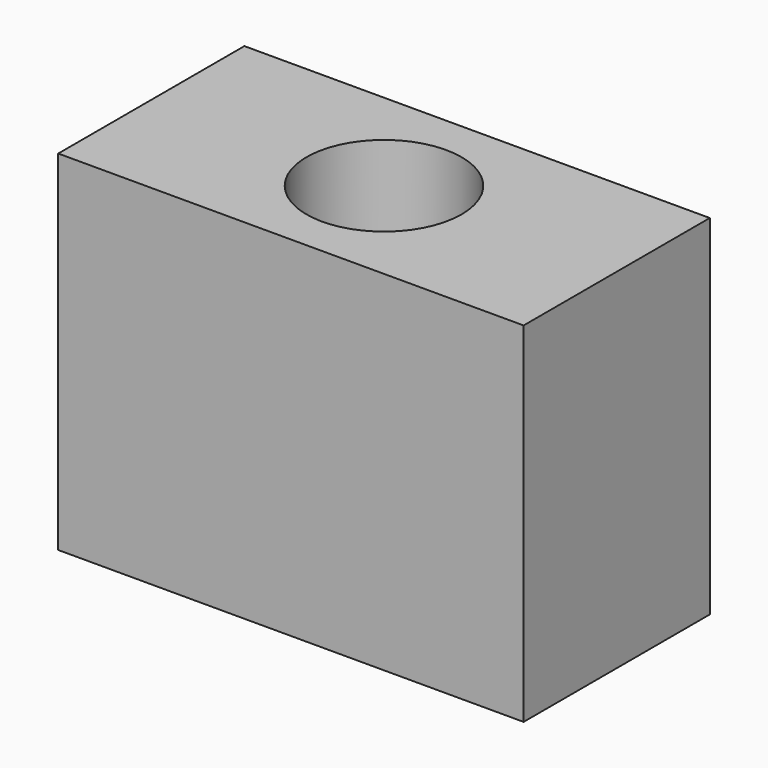
from build123d import *

# Parameters (mm, degrees)
F0_R     = 10
F1_DEPTH = 45


with BuildPart() as f1:
    # F0 (on Top) → F1 (new body)
    with BuildSketch(Plane.XY):
        Polygon((12.5, 30), (-12.5, 30), (-30, 30), (-30, 0), (-12.5, 0), (12.5, 0), (30, 0), (30, 30), align=None)
        with Locations((0, 15)):
            Circle(F0_R, mode=Mode.SUBTRACT)
    extrude(amount=F1_DEPTH)


solid = f1.part
